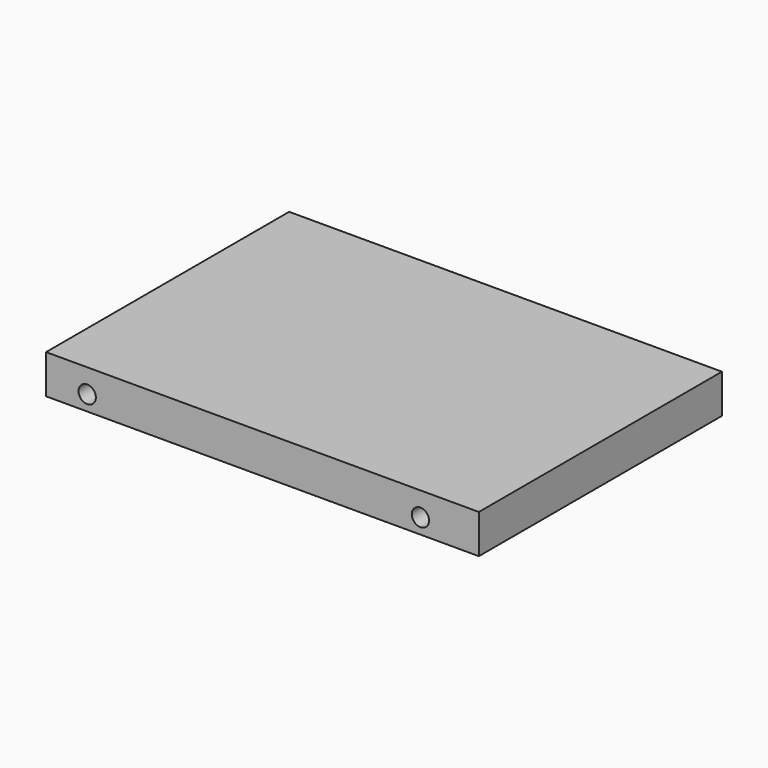
from build123d import *

# Parameters (mm, degrees)
CYLINDER_R       = 2
CYLINDER_DEPTH   = 100
ARRAY002_X_COUNT = 2
ARRAY002_X_PITCH = 77
BOX004_W         = 100
BOX004_H         = 70.2
BOX004_DEPTH     = 9


with BuildPart() as obj1:
    # Cylinder → Cylinder (new body)
    with BuildSketch(Plane(origin=(9.5, -16, 3.5), x_dir=(1, 0, 0), z_dir=(0, 1, 0))):
        Circle(CYLINDER_R)
    extrude(amount=CYLINDER_DEPTH)

    # Array002 X: obj1 ×2


with BuildPart() as obj1_1:
    add(obj1.part)
    with Locations(*[(i * ARRAY002_X_PITCH, 0, 0) for i in range(1, ARRAY002_X_COUNT)]):
        add(obj1.part)


with BuildPart() as obj2:
    # Box004 → Box004 (new body)
    with BuildSketch(Plane.XY):
        with Locations((50, 35.1)):
            Rectangle(BOX004_W, BOX004_H)
    extrude(amount=BOX004_DEPTH)

    # Cut003: cut obj1
    add(obj1_1.part, mode=Mode.SUBTRACT)


solid = obj2.part
